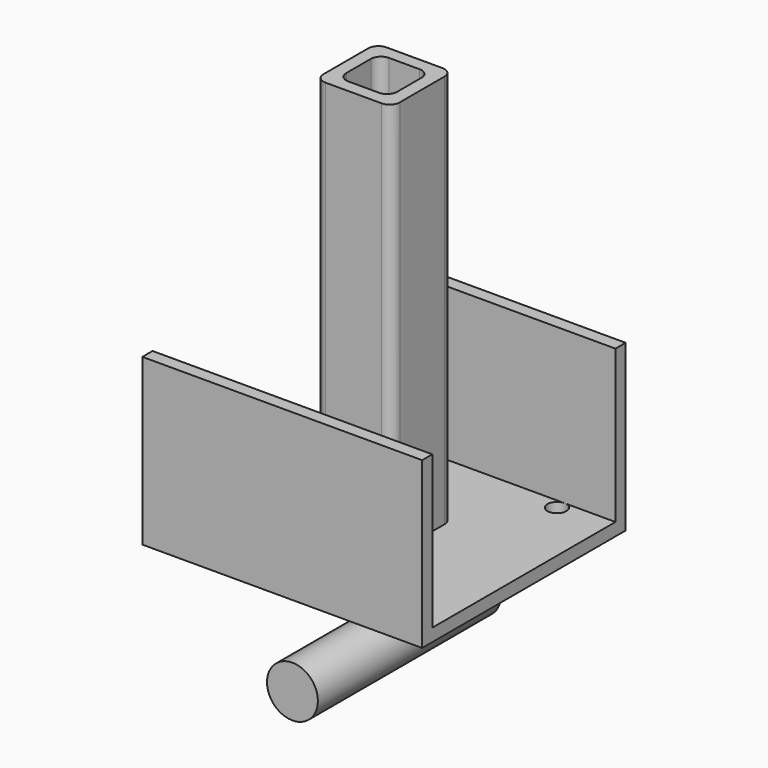
from build123d import *

# Parameters (mm, degrees)
F0_W      = 38.1
F0_H      = 38.1
F0_W_2    = 25.4
F0_H_2    = 25.4
F1_DEPTH  = 203.2
F2_R      = 5.08
F3_W      = 139.7
F3_H      = 127
F3_R      = 4.7625
F4_DEPTH  = 6.35
F6_W      = 139.7
F6_H      = 6.35
F7_DEPTH  = 76.2
F8_R      = 12.7
F9_DEPTH  = 114.3
F11_DEPTH = 38.1


with BuildPart() as f1:
    # F0 (on Top) → F1 (new body)
    with BuildSketch(Plane.XY):
        Rectangle(F0_W, F0_H)
        Rectangle(F0_W_2, F0_H_2, mode=Mode.SUBTRACT)
    extrude(amount=F1_DEPTH)

    # F2
    f2_edges = [f1.edges().sort_by_distance(p)[0] for p in [
        (-19.05, 19.05, 101.6),
        (-19.05, -19.05, 101.6),
        (19.05, -19.05, 101.6),
        (19.05, 19.05, 101.6),
        (-12.7, 12.7, 101.6),
        (12.7, 12.7, 101.6),
        (12.7, -12.7, 101.6),
        (-12.7, -12.7, 101.6),
    ]]
    fillet(f2_edges, radius=F2_R)

    # F3 (on Top) → F4 (join)
    with BuildSketch(Plane.XY):
        Rectangle(F3_W, F3_H)
        with Locations((-44.45, -52.3875)):
            Circle(F3_R, mode=Mode.SUBTRACT)
        with Locations((44.45, -52.3875)):
            Circle(F3_R, mode=Mode.SUBTRACT)
        with Locations((-44.45, 52.3875)):
            Circle(F3_R, mode=Mode.SUBTRACT)
        with Locations((44.45, 52.3875)):
            Circle(F3_R, mode=Mode.SUBTRACT)
    extrude(amount=F4_DEPTH)

    # F6 (on face) → F7 (join)
    with BuildSketch(Plane.XY.offset(6.35)):
        with Locations((0, 60.325)):
            Rectangle(F6_W, F6_H)
        with Locations((0, -60.325)):
            Rectangle(F6_W, F6_H)
    extrude(amount=F7_DEPTH)

    # F10 (on face) → F11 (cut, through all)
    with BuildSketch(Plane(origin=(-19.05, 0, 0), x_dir=(0, -1, 0), z_dir=(-1, 0, 0))):
        Polygon((19.05, 10.208864), (-19.05, 0), (19.05, 0), align=None)
    extrude(amount=-F11_DEPTH, mode=Mode.SUBTRACT)


with BuildPart() as f9:
    # F8 (on face) → F9 (new body, through all)
    with BuildSketch(Plane.XZ.offset(-57.15)):
        with Locations((0, -44.45)):
            Circle(F8_R)
    extrude(amount=F9_DEPTH)


solid = Compound([f1.part, f9.part])
